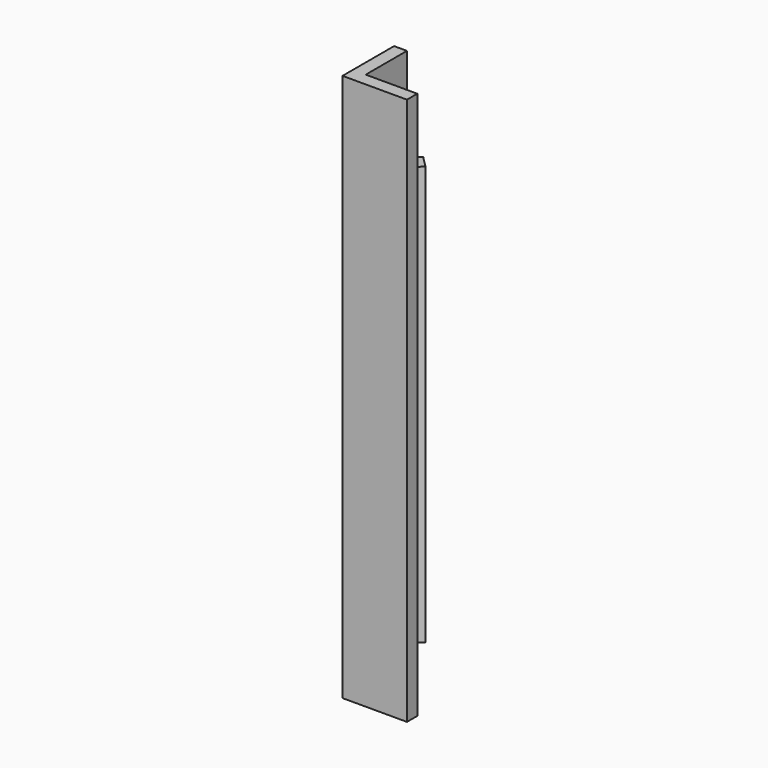
from build123d import *

# Parameters (mm, degrees)
PAD_DEPTH       = 170
SKETCH001_W     = 16
SKETCH001_H     = 16
POCKET_DEPTH    = 20
POCKET001_DEPTH = 20
SKETCH005_R     = 3.7
POCKET002_DEPTH = 2
SKETCH006_R     = 2.4
POCKET003_DEPTH = 4
SKETCH007_W     = 5
SKETCH007_H     = 130
PAD001_DEPTH    = 2


with BuildPart() as part:
    # Sketch → Pad (new body)
    with BuildSketch(Plane.XY):
        Polygon((0, 20), (0, 0), (20, 0), (20, 4), (4, 20), align=None)
    extrude(amount=PAD_DEPTH)

    # Sketch001 (on Face7 of Pad) → Pocket (cut)
    with BuildSketch(Plane.XY.offset(170)):
        with Locations((12, 12)):
            Rectangle(SKETCH001_W, SKETCH001_H)
    extrude(amount=-POCKET_DEPTH, mode=Mode.SUBTRACT)

    # Sketch004 → Pocket001 (cut)
    with BuildSketch(Plane(origin=(0, 0, 0), x_dir=(1, 0, 0), z_dir=(0, 0, -1))):
        Polygon((4, -4), (4, -20), (20, -4), align=None)
    extrude(amount=-POCKET001_DEPTH, mode=Mode.SUBTRACT)

    # Sketch005 → Pocket002 (cut)
    with BuildSketch(Plane.YZ.offset(4)):
        with Locations((12, 160)):
            Circle(SKETCH005_R)
        with Locations((12, 10)):
            Circle(SKETCH005_R)
    extrude(amount=-POCKET002_DEPTH, mode=Mode.SUBTRACT)

    # Sketch006 → Pocket003 (cut)
    with BuildSketch(Plane.YZ.offset(4)):
        with Locations((12, 10)):
            Circle(SKETCH006_R)
        with Locations((12, 160)):
            Circle(SKETCH006_R)
    extrude(amount=-POCKET003_DEPTH, mode=Mode.SUBTRACT)

    # Sketch007 → Pad001 (join)
    with BuildSketch(Plane(origin=(12, 12, 0), x_dir=(-0.707107, 0.707107, 0), z_dir=(0.707107, 0.707107, 0))):
        with Locations((-8.813708, 85)):
            Rectangle(SKETCH007_W, SKETCH007_H)
        with Locations((8.813708, 85)):
            Rectangle(SKETCH007_W, SKETCH007_H)
    extrude(amount=PAD001_DEPTH)


solid = part.part
